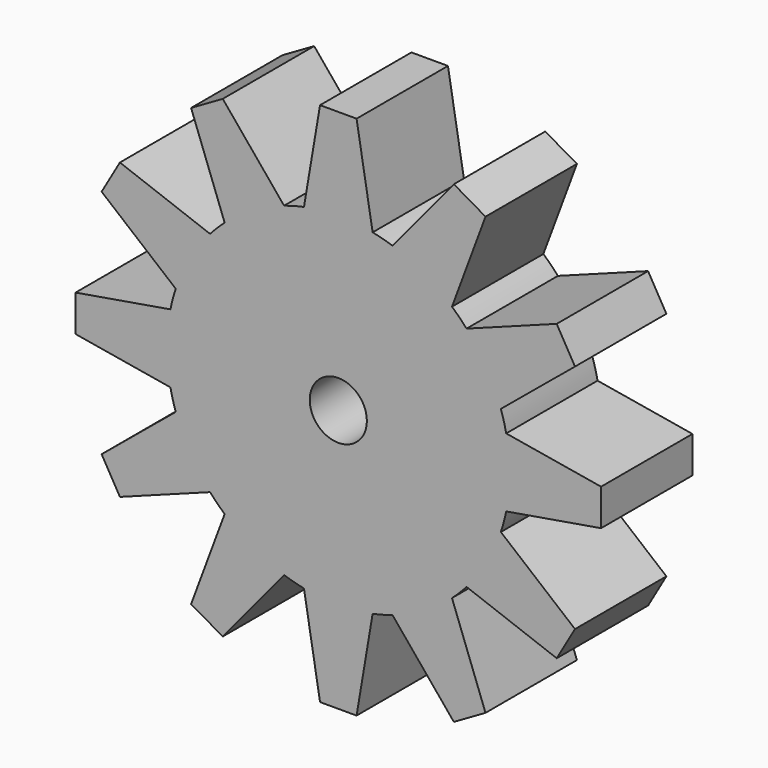
from build123d import *

# Parameters (mm, degrees)
F1_DEPTH = 6.35
F2_R     = 1.5875
F3_DEPTH = 6.35


with BuildPart() as f1:
    # F0 (on Front) → F1 (new body)
    with BuildSketch(Plane.XZ):
        with BuildLine():
            ThreePointArc((-6.318335, 7.127711), (-4.7625, 8.248892), (-3.013611, 9.035694))
            Line((-3.013611, 9.035694), (-6.422618, 13.156301))
            Line((-6.422618, 13.156301), (-7.3025, 12.648301))
            Line((-7.3025, 12.648301), (-8.182382, 12.140301))
            Line((-8.182382, 12.140301), (-6.318335, 7.127711))
        make_face()
        with BuildLine():
            ThreePointArc((-9.035694, 3.013611), (-8.248892, 4.7625), (-7.127711, 6.318335))
            Line((-7.127711, 6.318335), (-12.140301, 8.182382))
            Line((-12.140301, 8.182382), (-12.648301, 7.3025))
            Line((-12.648301, 7.3025), (-13.156301, 6.422618))
            Line((-13.156301, 6.422618), (-9.035694, 3.013611))
        make_face()
        with BuildLine():
            Line((-14.605, -1.016), (-9.331946, -1.907983))
            ThreePointArc((-9.331946, -1.907983), (-9.525, 0), (-9.331946, 1.907983))
            Line((-9.331946, 1.907983), (-14.605, 1.016))
            Line((-14.605, 1.016), (-14.605, 0))
            Line((-14.605, 0), (-14.605, -1.016))
        make_face()
        with BuildLine():
            Line((-6.422618, -13.156301), (-3.013611, -9.035694))
            ThreePointArc((-3.013611, -9.035694), (-4.7625, -8.248892), (-6.318335, -7.127711))
            Line((-6.318335, -7.127711), (-8.182382, -12.140301))
            Line((-8.182382, -12.140301), (-7.3025, -12.648301))
            Line((-7.3025, -12.648301), (-6.422618, -13.156301))
        make_face()
        with BuildLine():
            Line((-12.140301, -8.182382), (-7.127711, -6.318335))
            ThreePointArc((-7.127711, -6.318335), (-8.248892, -4.7625), (-9.035694, -3.013611))
            Line((-9.035694, -3.013611), (-13.156301, -6.422618))
            Line((-13.156301, -6.422618), (-12.648301, -7.3025))
            Line((-12.648301, -7.3025), (-12.140301, -8.182382))
        make_face()
        with BuildLine():
            ThreePointArc((9.331946, -1.907983), (9.476614, -0.958863), (9.525, 0))
            ThreePointArc((9.525, 0), (9.476614, 0.958863), (9.331946, 1.907983))
            ThreePointArc((9.331946, 1.907983), (9.200443, 2.465251), (9.035694, 3.013611))
            ThreePointArc((9.035694, 3.013611), (8.248892, 4.7625), (7.127711, 6.318335))
            ThreePointArc((7.127711, 6.318335), (6.735192, 6.735192), (6.318335, 7.127711))
            ThreePointArc((6.318335, 7.127711), (4.7625, 8.248892), (3.013611, 9.035694))
            ThreePointArc((3.013611, 9.035694), (2.465251, 9.200443), (1.907983, 9.331946))
            ThreePointArc((1.907983, 9.331946), (0.958863, 9.476614), (0, 9.525))
            ThreePointArc((0, 9.525), (-0.958863, 9.476614), (-1.907983, 9.331946))
            ThreePointArc((-1.907983, 9.331946), (-2.465251, 9.200443), (-3.013611, 9.035694))
            ThreePointArc((-3.013611, 9.035694), (-4.7625, 8.248892), (-6.318335, 7.127711))
            ThreePointArc((-6.318335, 7.127711), (-6.735192, 6.735192), (-7.127711, 6.318335))
            ThreePointArc((-7.127711, 6.318335), (-8.248892, 4.7625), (-9.035694, 3.013611))
            ThreePointArc((-9.035694, 3.013611), (-9.200443, 2.465251), (-9.331946, 1.907983))
            ThreePointArc((-9.331946, 1.907983), (-9.525, 0), (-9.331946, -1.907983))
            ThreePointArc((-9.331946, -1.907983), (-9.200443, -2.465251), (-9.035694, -3.013611))
            ThreePointArc((-9.035694, -3.013611), (-8.248892, -4.7625), (-7.127711, -6.318335))
            ThreePointArc((-7.127711, -6.318335), (-6.735192, -6.735192), (-6.318335, -7.127711))
            ThreePointArc((-6.318335, -7.127711), (-4.7625, -8.248892), (-3.013611, -9.035694))
            ThreePointArc((-3.013611, -9.035694), (-2.465251, -9.200443), (-1.907983, -9.331946))
            ThreePointArc((-1.907983, -9.331946), (0, -9.525), (1.907983, -9.331946))
            ThreePointArc((1.907983, -9.331946), (2.465251, -9.200443), (3.013611, -9.035694))
            ThreePointArc((3.013611, -9.035694), (4.7625, -8.248892), (6.318335, -7.127711))
            ThreePointArc((6.318335, -7.127711), (6.735192, -6.735192), (7.127711, -6.318335))
            ThreePointArc((7.127711, -6.318335), (8.248892, -4.7625), (9.035694, -3.013611))
            ThreePointArc((9.035694, -3.013611), (9.200443, -2.465251), (9.331946, -1.907983))
        make_face()
        with BuildLine():
            Line((1.016, -14.605), (1.907983, -9.331946))
            ThreePointArc((1.907983, -9.331946), (0, -9.525), (-1.907983, -9.331946))
            Line((-1.907983, -9.331946), (-1.016, -14.605))
            Line((-1.016, -14.605), (0, -14.605))
            Line((0, -14.605), (1.016, -14.605))
        make_face()
        with BuildLine():
            Line((8.182382, -12.140301), (6.318335, -7.127711))
            ThreePointArc((6.318335, -7.127711), (4.7625, -8.248892), (3.013611, -9.035694))
            Line((3.013611, -9.035694), (6.422618, -13.156301))
            Line((6.422618, -13.156301), (7.3025, -12.648301))
            Line((7.3025, -12.648301), (8.182382, -12.140301))
        make_face()
        with BuildLine():
            Line((13.156301, -6.422618), (9.035694, -3.013611))
            ThreePointArc((9.035694, -3.013611), (8.248892, -4.7625), (7.127711, -6.318335))
            Line((7.127711, -6.318335), (12.140301, -8.182382))
            Line((12.140301, -8.182382), (12.648301, -7.3025))
            Line((12.648301, -7.3025), (13.156301, -6.422618))
        make_face()
        with BuildLine():
            ThreePointArc((9.331946, 1.907983), (9.476614, 0.958863), (9.525, 0))
            ThreePointArc((9.525, 0), (9.476614, -0.958863), (9.331946, -1.907983))
            Line((9.331946, -1.907983), (14.605, -1.016))
            Line((14.605, -1.016), (14.605, 0))
            Line((14.605, 0), (14.605, 1.016))
            Line((14.605, 1.016), (9.331946, 1.907983))
        make_face()
        with BuildLine():
            ThreePointArc((7.127711, 6.318335), (8.248892, 4.7625), (9.035694, 3.013611))
            Line((9.035694, 3.013611), (13.156301, 6.422618))
            Line((13.156301, 6.422618), (12.648301, 7.3025))
            Line((12.648301, 7.3025), (12.140301, 8.182382))
            Line((12.140301, 8.182382), (7.127711, 6.318335))
        make_face()
        with BuildLine():
            ThreePointArc((3.013611, 9.035694), (4.7625, 8.248892), (6.318335, 7.127711))
            Line((6.318335, 7.127711), (8.182382, 12.140301))
            Line((8.182382, 12.140301), (7.3025, 12.648301))
            Line((7.3025, 12.648301), (6.422618, 13.156301))
            Line((6.422618, 13.156301), (3.013611, 9.035694))
        make_face()
        with BuildLine():
            ThreePointArc((-1.907983, 9.331946), (-0.958863, 9.476614), (0, 9.525))
            Line((0, 9.525), (0, 14.605))
            Line((0, 14.605), (-1.016, 14.605))
            Line((-1.016, 14.605), (-1.907983, 9.331946))
        make_face()
        with BuildLine():
            ThreePointArc((0, 9.525), (0.958863, 9.476614), (1.907983, 9.331946))
            Line((1.907983, 9.331946), (1.016, 14.605))
            Line((1.016, 14.605), (0, 14.605))
            Line((0, 14.605), (0, 9.525))
        make_face()
    extrude(amount=F1_DEPTH)

    # F2 (on face) → F3 (cut)
    with BuildSketch(Plane.XZ.offset(6.35)):
        Circle(F2_R)
    extrude(amount=-F3_DEPTH, mode=Mode.SUBTRACT)


solid = f1.part
